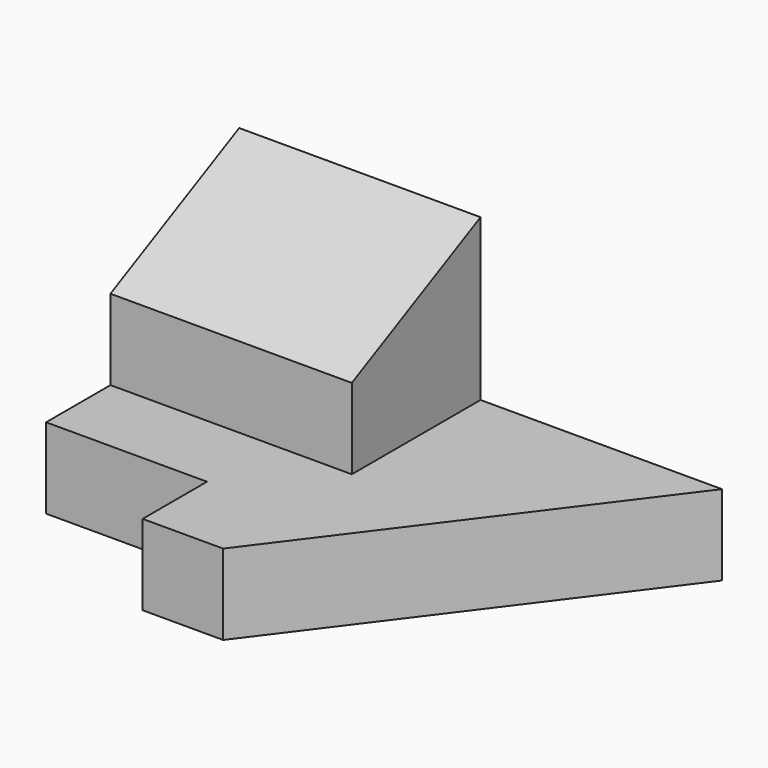
from build123d import *

# Parameters (mm, degrees)
PAD_DEPTH    = 5
SKETCH001_W  = 30
SKETCH001_H  = 20
PAD001_DEPTH = 20
POCKET_DEPTH = 30.001


with BuildPart() as part:
    # Sketch → Pad (new body, symmetric)
    with BuildSketch(Plane.XY):
        Polygon((-30, 20), (-30, -10), (-10, -10), (-10, -20), (0, -20), (30, 20), align=None)
    extrude(amount=PAD_DEPTH, both=True)

    # Sketch001 (on Face8 of Pad) → Pad001 (join)
    with BuildSketch(Plane.XY.offset(5)):
        with Locations((-15, 10)):
            Rectangle(SKETCH001_W, SKETCH001_H)
    extrude(amount=PAD001_DEPTH)

    # Sketch002 (on Face9 of Pad001) → Pocket (cut, through all)
    with BuildSketch(Plane.YZ):
        Polygon((0, 25), (0, 15), (20, 25), align=None)
    extrude(amount=-POCKET_DEPTH, mode=Mode.SUBTRACT)


solid = part.part
